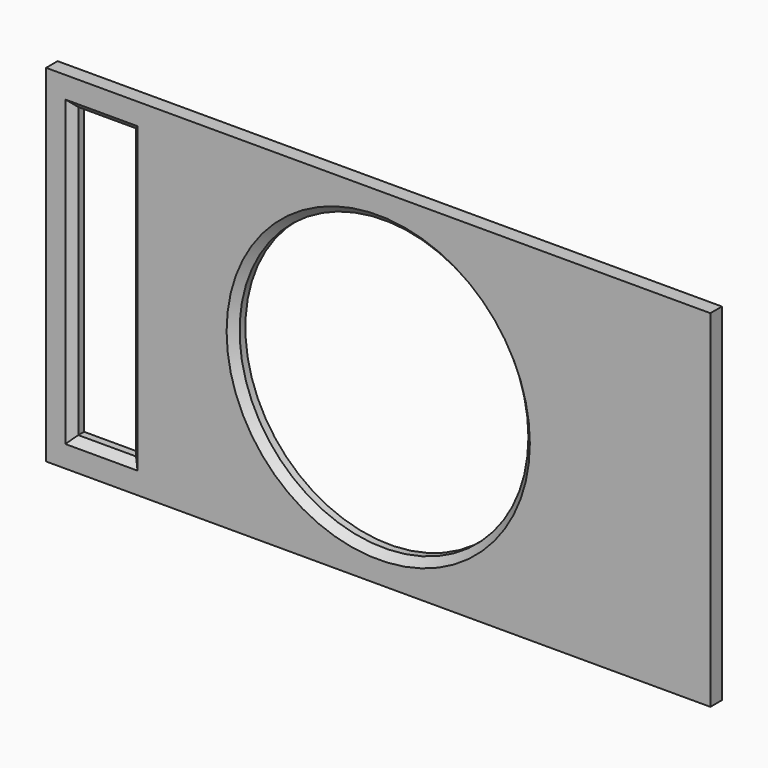
from build123d import *

# Parameters (mm, degrees)
F0_W     = 146.05
F0_H     = 76.2
F0_W_2   = 12.7
F0_H_2   = 63.5
F0_R     = 31.75
F1_DEPTH = 1.5875
F2_SIZE  = 1.5875
F3_SIZE  = 1.5875


with BuildPart() as f1:
    # F0 (on Front) → F1 (new body, symmetric)
    with BuildSketch(Plane.XZ):
        Rectangle(F0_W, F0_H)
        with Locations((-60.861046, 0)):
            Rectangle(F0_W_2, F0_H_2, mode=Mode.SUBTRACT)
        Circle(F0_R, mode=Mode.SUBTRACT)
    extrude(amount=F1_DEPTH, both=True)

    # F2
    f2_edges = [f1.edges().sort_by_distance(p)[0] for p in [
        (-54.511046, -1.5875, 0),
        (-60.861046, -1.5875, -31.75),
        (-67.211046, -1.5875, 0),
        (-60.861046, -1.5875, 31.75),
    ]]
    chamfer(f2_edges, length=F2_SIZE)

    # F3
    f3_edges = [f1.edges().sort_by_distance(p)[0] for p in [
        (-31.75, -1.5875, 0),
    ]]
    chamfer(f3_edges, length=F3_SIZE)


solid = f1.part
